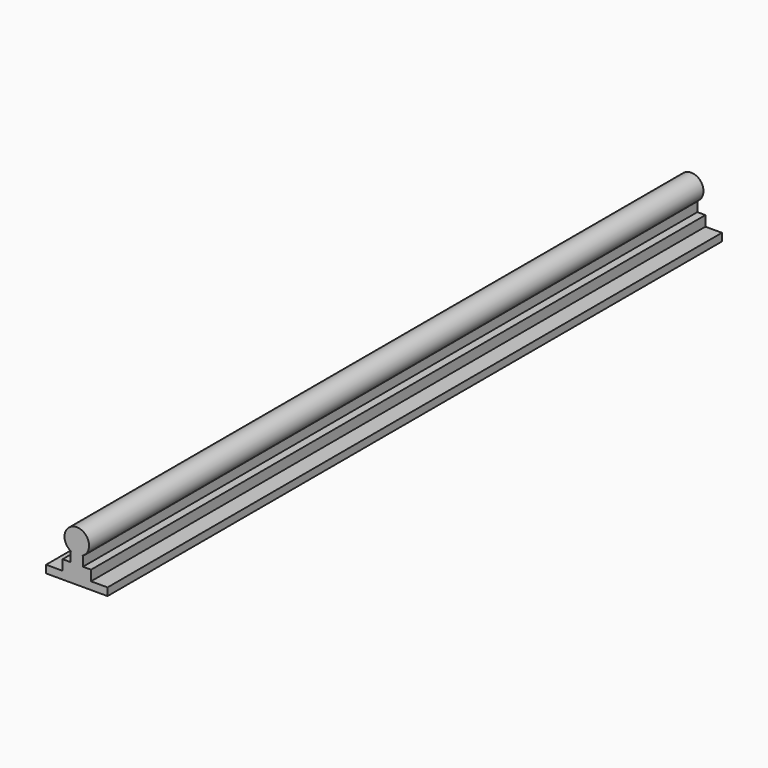
from build123d import *

# Parameters (mm, degrees)
F1_DEPTH = 500


with BuildPart() as f1:
    # F0 (on Front) → F1 (new body)
    with BuildSketch(Plane.XZ):
        with BuildLine():
            Line((-33.991796, -5.594154), (-33.991796, -10.594154))
            Line((-33.991796, -10.594154), (6.008204, -10.594154))
            Line((6.008204, -10.594154), (6.008204, -5.594154))
            Line((6.008204, -5.594154), (-4.741796, -5.594154))
            Line((-4.741796, -5.594154), (-4.741796, 1.051143))
            Line((-4.741796, 1.051143), (-9.991796, 1.051143))
            Line((-9.991796, 1.051143), (-9.991796, 7.205846))
            Line((-9.991796, 7.205846), (-10.504677, 7.205846))
            ThreePointArc((-10.504677, 7.205846), (-13.991796, 22.405846), (-17.478915, 7.205846))
            Line((-17.478915, 7.205846), (-17.991796, 7.205846))
            Line((-17.991796, 7.205846), (-17.991796, 1.051143))
            Line((-17.991796, 1.051143), (-23.241796, 1.051143))
            Line((-23.241796, 1.051143), (-23.241796, -5.594154))
            Line((-23.241796, -5.594154), (-33.991796, -5.594154))
        make_face()
    extrude(amount=F1_DEPTH)


solid = f1.part
